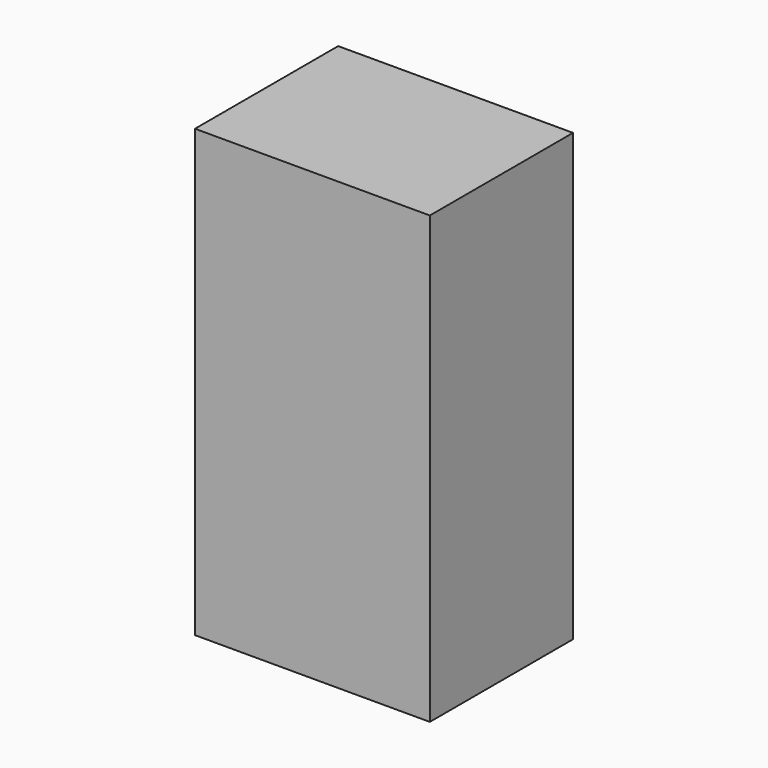
from build123d import *

# Parameters (mm, degrees)
SKETCH001_W     = 1870
SKETCH001_H     = 3550
SKETCH001_W_2   = 1270
SKETCH001_H_2   = 2950
PAD_DEPTH       = 1425
BINDER_W        = 1870
BINDER_H        = 3550
PAD001_DEPTH    = 200
SKETCH002_W     = 65
SKETCH002_H     = 2018
POCKET_DEPTH    = 920
BOX_W           = 290
BOX_H           = 310
BOX_DEPTH       = 70
SKETCH003_R     = 75
POCKET001_DEPTH = 100


with BuildPart() as part:
    # Sketch001 → Pad (new body)
    with BuildSketch(Plane.XZ):
        Rectangle(SKETCH001_W, SKETCH001_H)
        Rectangle(SKETCH001_W_2, SKETCH001_H_2, mode=Mode.SUBTRACT)
    extrude(amount=PAD_DEPTH)

    # Binder → Pad001 (join)
    with BuildSketch(Plane(origin=(0, -1425, 0), x_dir=(1, 0, 0), z_dir=(0, 1, 0))):
        Rectangle(BINDER_W, BINDER_H)
    extrude(amount=PAD001_DEPTH)

    # Sketch002 (on Face1 of Pad001) → Pocket (cut)
    with BuildSketch(Plane(origin=(0, 0, 0), x_dir=(1, 0, 0), z_dir=(0, 1, 0))):
        with Locations((-667.5, 466)):
            Rectangle(SKETCH002_W, SKETCH002_H)
    extrude(amount=-POCKET_DEPTH, mode=Mode.SUBTRACT)

    # Box → Box (cut)
    with BuildSketch(Plane(origin=(705, -535, 0), x_dir=(0, 0, -1), z_dir=(-1, 0, 0))):
        with Locations((145, 155)):
            Rectangle(BOX_W, BOX_H)
    extrude(amount=BOX_DEPTH, mode=Mode.SUBTRACT)

    # Sketch003 (on Face7 of Box) → Pocket001 (cut)
    with BuildSketch(Plane(origin=(635, -535, 0), x_dir=(0, 0, -1), z_dir=(-1, 0, 0))):
        with Locations((-845, 155)):
            Circle(SKETCH003_R)
    extrude(amount=-POCKET001_DEPTH, mode=Mode.SUBTRACT)


solid = part.part
